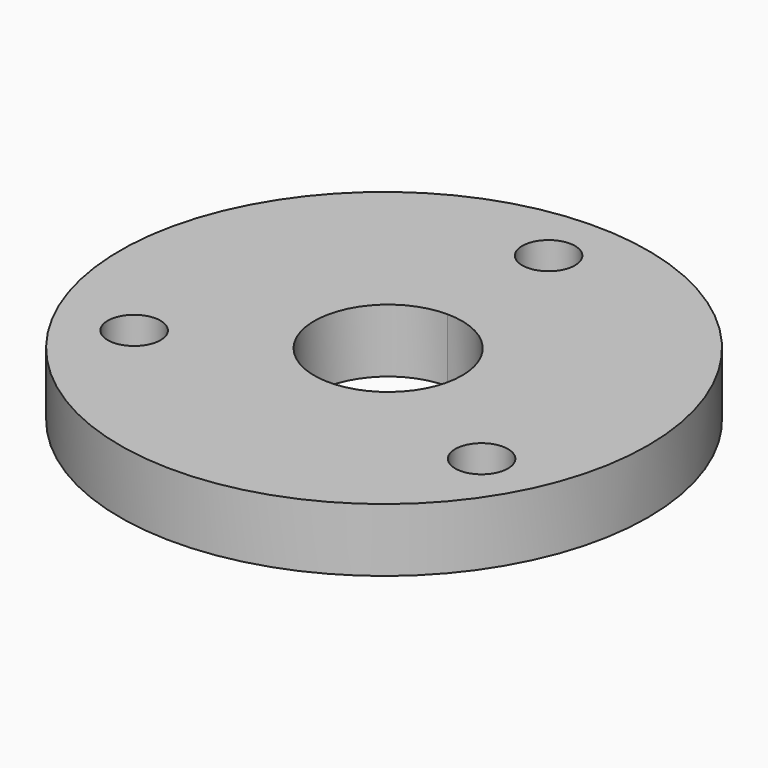
from build123d import *

# Parameters (mm, degrees)
F0_R     = 25
F0_R_2   = 2.5
F1_DEPTH = 6


with BuildPart() as f1:
    # F0 (on Top) → F1 (new body)
    with BuildSketch(Plane.XY):
        with Locations((-0.261943, -0.151233)):
            Circle(F0_R)
        with Locations((-16.454483, -9.5)):
            Circle(F0_R_2, mode=Mode.SUBTRACT)
        with Locations((16.454483, -9.5)):
            Circle(F0_R_2, mode=Mode.SUBTRACT)
        with BuildLine():
            ThreePointArc((0, 7), (4.949747, 4.949747), (7, 0))
            ThreePointArc((7, 0), (-4.949747, -4.949747), (0, 7))
        make_face(mode=Mode.SUBTRACT)
        with BuildLine():
            ThreePointArc((0, 16.5), (-1.767767, 20.767767), (2.5, 19))
            ThreePointArc((2.5, 19), (1.767767, 17.232233), (0, 16.5))
        make_face(mode=Mode.SUBTRACT)
    extrude(amount=F1_DEPTH)


solid = f1.part
